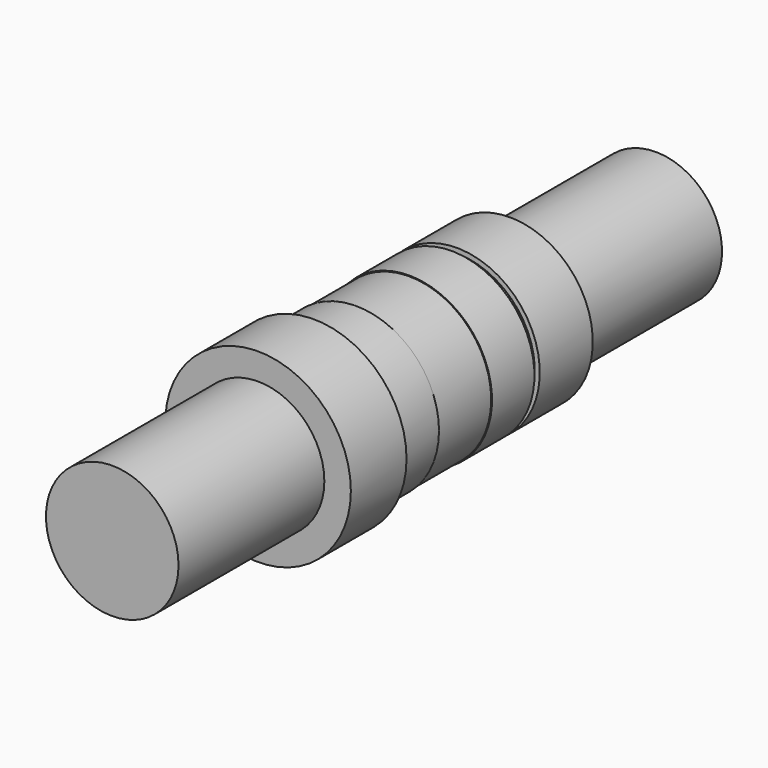
from build123d import *

# Parameters (mm, degrees)
F0_R      = 24.75
F1_DEPTH  = 20
F2_R      = 25
F3_DEPTH  = 16
F4_R      = 25
F5_DEPTH  = 16
F6_R      = 28
F7_DEPTH  = 21
F8_R      = 20
F9_DEPTH  = 55
F10_R     = 23.5
F11_DEPTH = 2
F12_R     = 25
F13_DEPTH = 20
F14_R     = 20
F15_DEPTH = 55


with BuildPart() as f1:
    # F0 (on Front) → F1 (new body)
    with BuildSketch(Plane.XZ):
        Circle(F0_R)
    extrude(amount=F1_DEPTH)

    # F2 (on face) → F3 (join)
    with BuildSketch(Plane.XZ.offset(20)):
        Circle(F2_R)
    extrude(amount=F3_DEPTH)

    # F4 (on face) → F5 (join)
    with BuildSketch(Plane(origin=(0, 0, 0), x_dir=(-1, 0, 0), z_dir=(0, 1, 0))):
        Circle(F4_R)
    extrude(amount=F5_DEPTH)

    # F6 (on face) → F7 (join)
    with BuildSketch(Plane.XZ.offset(36)):
        Circle(F6_R)
    extrude(amount=F7_DEPTH)

    # F8 (on face) → F9 (join)
    with BuildSketch(Plane.XZ.offset(57)):
        Circle(F8_R)
    extrude(amount=F9_DEPTH)

    # F10 (on face) → F11 (join)
    with BuildSketch(Plane(origin=(0, 16, 0), x_dir=(-1, 0, 0), z_dir=(0, 1, 0))):
        Circle(F10_R)
    extrude(amount=F11_DEPTH)

    # F12 (on face) → F13 (join)
    with BuildSketch(Plane(origin=(0, 18, 0), x_dir=(-1, 0, 0), z_dir=(0, 1, 0))):
        Circle(F12_R)
    extrude(amount=F13_DEPTH)

    # F14 (on face) → F15 (join)
    with BuildSketch(Plane(origin=(0, 38, 0), x_dir=(-1, 0, 0), z_dir=(0, 1, 0))):
        Circle(F14_R)
    extrude(amount=F15_DEPTH)


solid = f1.part
